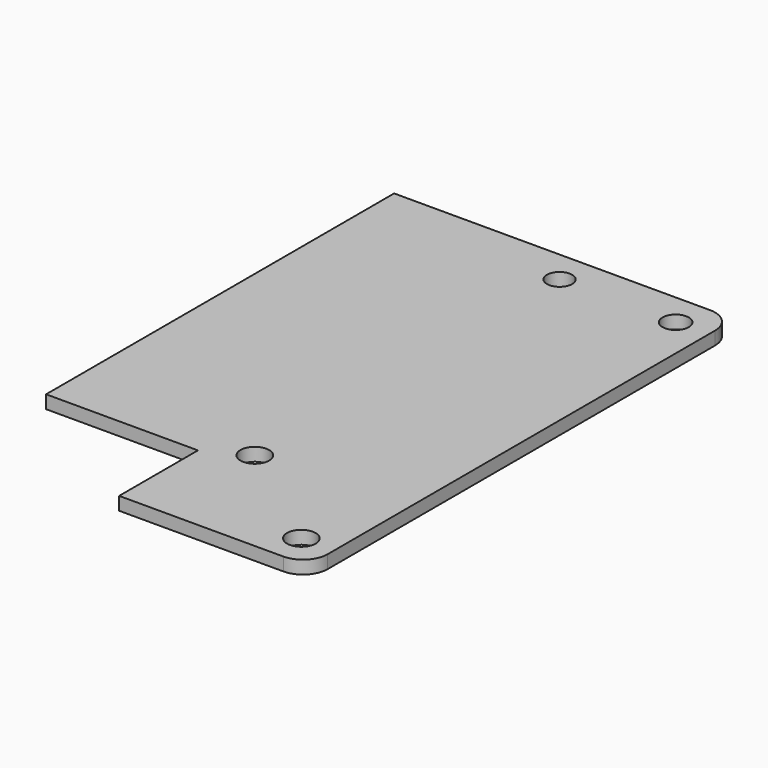
from build123d import *

# Parameters (mm, degrees)
F0_R     = 1.75
F0_R_2   = 1.536374
F0_R_3   = 1.6
F1_DEPTH = 1.6


with BuildPart() as f1:
    # F0 (on Top) → F1 (new body)
    with BuildSketch(Plane.XY):
        with BuildLine():
            Line((0, 12), (0, 0))
            Line((0, 0), (20, 0))
            ThreePointArc((20, 0), (22.12132, 0.87868), (23, 3))
            Line((23, 3), (23, 62))
            ThreePointArc((23, 62), (22.12132, 64.12132), (20, 65))
            Line((20, 65), (-18.5, 65))
            Line((-18.5, 65), (-18.5, 12))
            Line((-18.5, 12), (0, 12))
        make_face()
        with Locations((4.86, 14.59)):
            Circle(F0_R, mode=Mode.SUBTRACT)
        with Locations((19, 4)):
            Circle(F0_R, mode=Mode.SUBTRACT)
        with Locations((4.86, 61)):
            Circle(F0_R_2, mode=Mode.SUBTRACT)
        with Locations((19, 61)):
            Circle(F0_R_3, mode=Mode.SUBTRACT)
    extrude(amount=F1_DEPTH)


solid = f1.part
